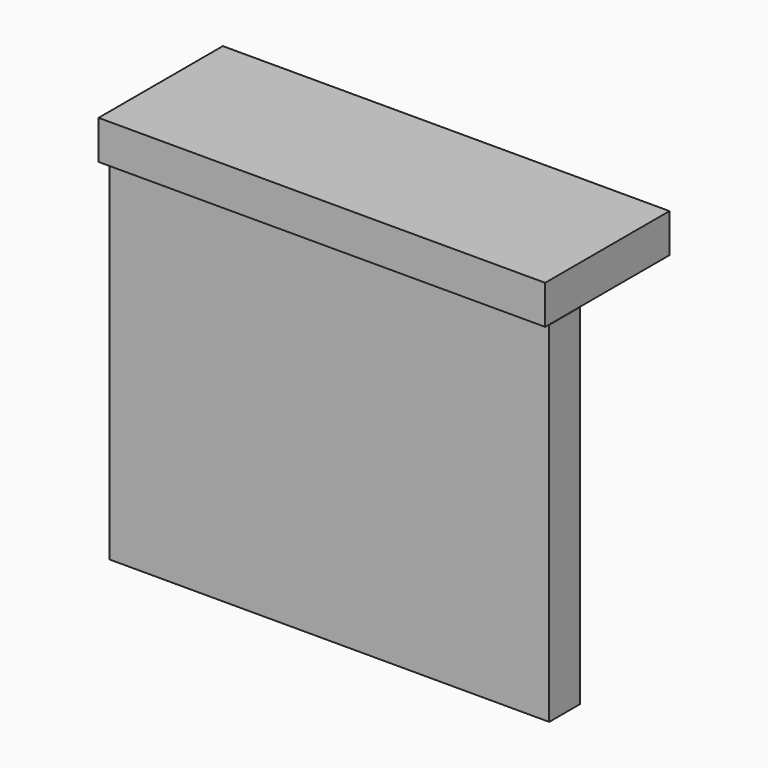
from build123d import *

# Parameters (mm, degrees)
SKETCH_W     = 23
SKETCH_H     = 8
PAD_DEPTH    = 2
SKETCH001_W  = 22.653065
SKETCH001_H  = 1.97644
PAD001_DEPTH = 18


with BuildPart() as part:
    # Sketch → Pad (new body)
    with BuildSketch(Plane(origin=(0, 0, 0), x_dir=(1, 0, 0), z_dir=(0, 0, -1))):
        with Locations((-0.408561, 4.282843)):
            Rectangle(SKETCH_W, SKETCH_H)
    extrude(amount=PAD_DEPTH)

    # Sketch001 → Pad001 (new body)
    with BuildSketch(Plane(origin=(0, 0, -2), x_dir=(1, 0, 0), z_dir=(0, 0, -1))):
        with Locations((-0.217493, 7.055064)):
            Rectangle(SKETCH001_W, SKETCH001_H)
    extrude(amount=PAD001_DEPTH)


solid = part.part
